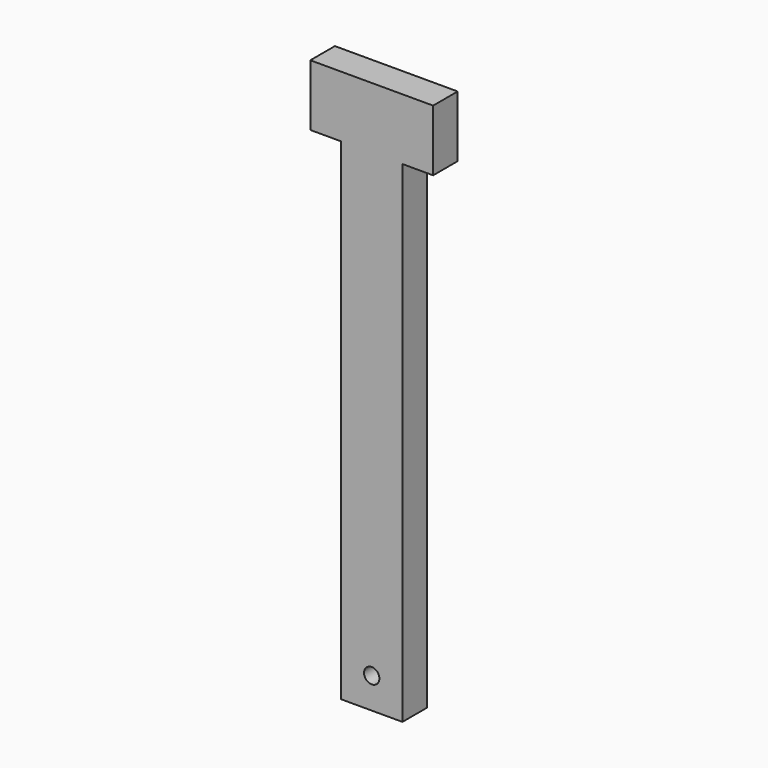
from build123d import *

# Parameters (mm, degrees)
F1_DEPTH = 12.7
F3_D     = 6.35


with BuildPart() as f1:
    # F0 (on Front) → F1 (new body)
    with BuildSketch(Plane.XZ):
        Polygon((-30.378454, 28.231527), (-30.378454, -174.968473), (-4.978454, -174.968473), (-4.978454, 28.231527), (7.721546, 28.231527), (7.721546, 53.631527), (-43.078454, 53.631527), (-43.078454, 28.231527), align=None)
    extrude(amount=-F1_DEPTH)

    # F3 (through all)
    with Locations(Plane.XZ):
        with Locations((-17.678454, -162.268473)):
            Hole(F3_D / 2)


solid = f1.part
